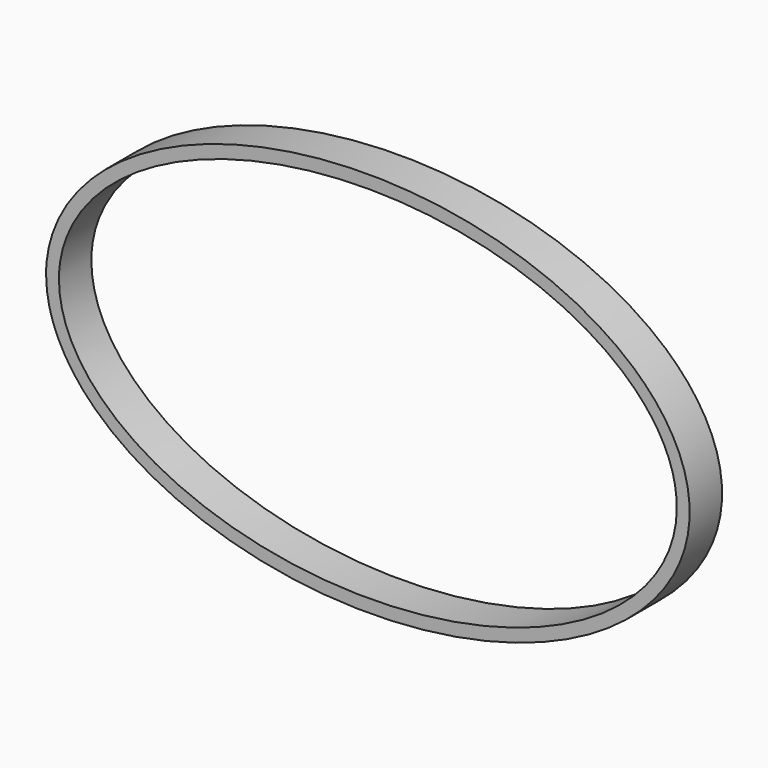
from build123d import *

# Parameters (mm, degrees)
F1_DEPTH = 4


with BuildPart() as f1:
    # F0 (on Front) → F1 (new body)
    with BuildSketch(Plane.XZ):
        with BuildLine():
            add(Edge.make_bspline(
                [(-31.75, 0), (-31.75, -32.995568), (15.875, -16.497784), (63.5, 0), (15.875, 16.497784), (-31.75, 32.995568), (-31.75, 0)],
                knots=[0, 0, 0, 2.094395, 2.094395, 4.18879, 4.18879, 6.283185, 6.283185, 6.283185], degree=2, weights=[1, 0.5, 1, 0.5, 1, 0.5, 1]))
        make_face()
        with BuildLine():
            add(Edge.make_bspline(
                [(-30.48, 0), (-30.48, -30.795863), (15.24, -15.397932), (60.96, 0), (15.24, 15.397932), (-30.48, 30.795863), (-30.48, 0)],
                knots=[0, 0, 0, 2.094395, 2.094395, 4.18879, 4.18879, 6.283185, 6.283185, 6.283185], degree=2, weights=[1, 0.5, 1, 0.5, 1, 0.5, 1]))
        make_face(mode=Mode.SUBTRACT)
    extrude(amount=F1_DEPTH)


solid = f1.part
